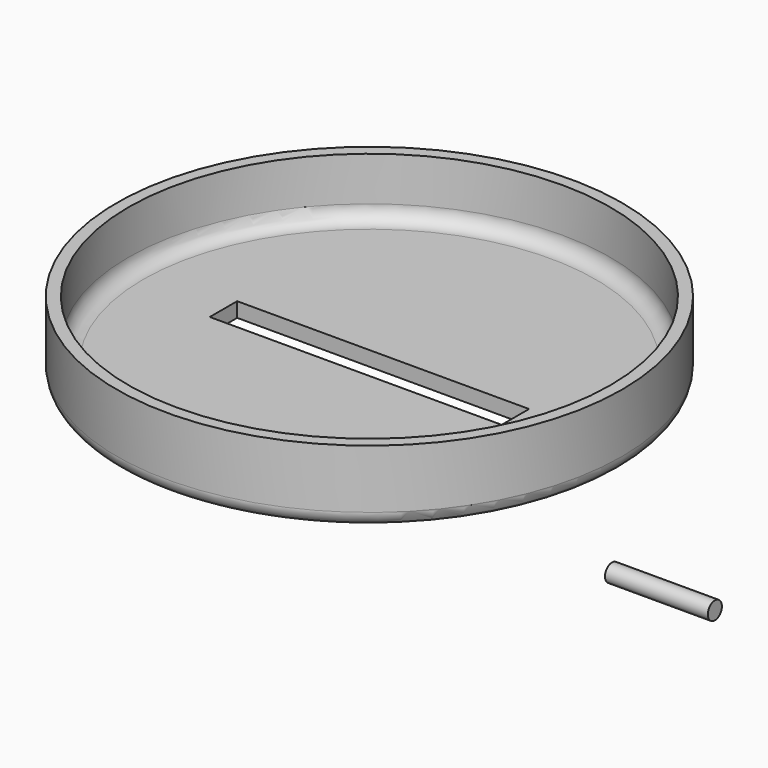
from build123d import *

# Parameters (mm, degrees)
F0_R     = 43.688
F0_R_2   = 41.656
F1_DEPTH = 12.7
F2_DEPTH = 2.54
F3_R     = 2.54
F4_R     = 1.524
F5_DEPTH = 17.78
F6_W     = 50.452404
F6_H     = 5.919292
F7_DEPTH = 25.4


with BuildPart() as f1:
    # F0 (on Top) → F1 (new body)
    with BuildSketch(Plane.XY):
        Circle(F0_R)
        Circle(F0_R_2, mode=Mode.SUBTRACT)
    extrude(amount=F1_DEPTH)

    # F0 (on Top) → F2 (join)
    with BuildSketch(Plane.XY):
        Circle(F0_R_2)
    extrude(amount=F2_DEPTH)

    # F3
    f3_edges = [f1.edges().sort_by_distance(p)[0] for p in [
        (-41.656, 0, 2.54),
        (-43.688, 0, 0),
    ]]
    fillet(f3_edges, radius=F3_R)

    # F6 (on face) → F7 (cut)
    with BuildSketch(Plane.XY):
        Rectangle(F6_W, F6_H)
    extrude(amount=F7_DEPTH, mode=Mode.SUBTRACT)


with BuildPart() as f5:
    # F4 (on Right) → F5 (new body)
    with BuildSketch(Plane.YZ):
        with Locations((52.414779, -50.63026)):
            Circle(F4_R)
    extrude(amount=F5_DEPTH)


solid = Compound([f1.part, f5.part])
